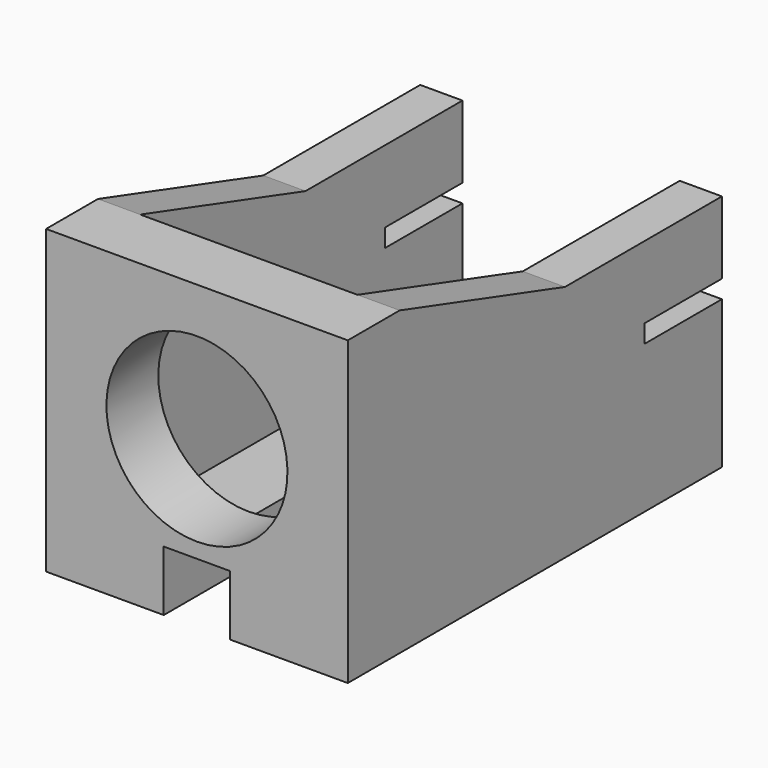
from build123d import *

# Parameters (mm, degrees)
SKETCH067_W     = 15.5
SKETCH067_H     = 10
PAD039_DEPTH    = 10
POCKET011_DEPTH = 9
POCKET012_DEPTH = 10
POCKET010_DEPTH = 8.6
SKETCH075_R     = 3
HOLE002_DEPTH   = 25
SKETCH070_W     = 3.2
SKETCH070_H     = 0.6
POCKET013_DEPTH = 10


with BuildPart() as part:
    # Sketch067 → Pad039 (new body)
    with BuildSketch(Plane.YZ):
        with Locations((7.75, 5)):
            Rectangle(SKETCH067_W, SKETCH067_H)
    extrude(amount=PAD039_DEPTH)

    # Sketch074 (on Face1 of Pad039) → Pocket011 (cut)
    with BuildSketch(Plane(origin=(0, 0, 0), x_dir=(0, 0, -1), z_dir=(0, -1, 0))):
        Polygon((-2, 6.1), (-2, 3.9), (0, 3.9), (0, 5), (0, 6.1), align=None)
    extrude(amount=-POCKET011_DEPTH, mode=Mode.SUBTRACT)

    # Sketch076 → Pocket012 (cut)
    with BuildSketch(Plane.YZ.offset(10)):
        Polygon((2.15, 10), (9, 7.9), (15.5, 7.9), (15.5, 10), align=None)
    extrude(amount=-POCKET012_DEPTH, mode=Mode.SUBTRACT)

    # Sketch068 (on Face4 of Pad039) → Pocket010 (cut)
    with BuildSketch(Plane(origin=(0, 0, 10), x_dir=(0, -1, 0), z_dir=(0, 0, 1))):
        Polygon((-15.5, 8.6), (-15.5, 5), (-15.5, 1.4), (-2.15, 1.4), (-2.15, 8.6), align=None)
    extrude(amount=-POCKET010_DEPTH, mode=Mode.SUBTRACT)

    # Sketch075 (on Face1 of Pocket011) → Hole002 (cut)
    with BuildSketch(Plane(origin=(0, 0, 0), x_dir=(0, 0, -1), z_dir=(0, -1, 0))):
        with Locations((-5.5, 5)):
            Circle(SKETCH075_R)
    extrude(amount=-HOLE002_DEPTH, mode=Mode.SUBTRACT)

    # Sketch070 (on Face2 of Hole002) → Pocket013 (cut)
    with BuildSketch(Plane(origin=(0, 0, 0), x_dir=(0, 1, 0), z_dir=(-1, 0, 0))):
        with Locations((13.9, -5.2)):
            Rectangle(SKETCH070_W, SKETCH070_H)
    extrude(amount=-POCKET013_DEPTH, mode=Mode.SUBTRACT)


solid = part.part
